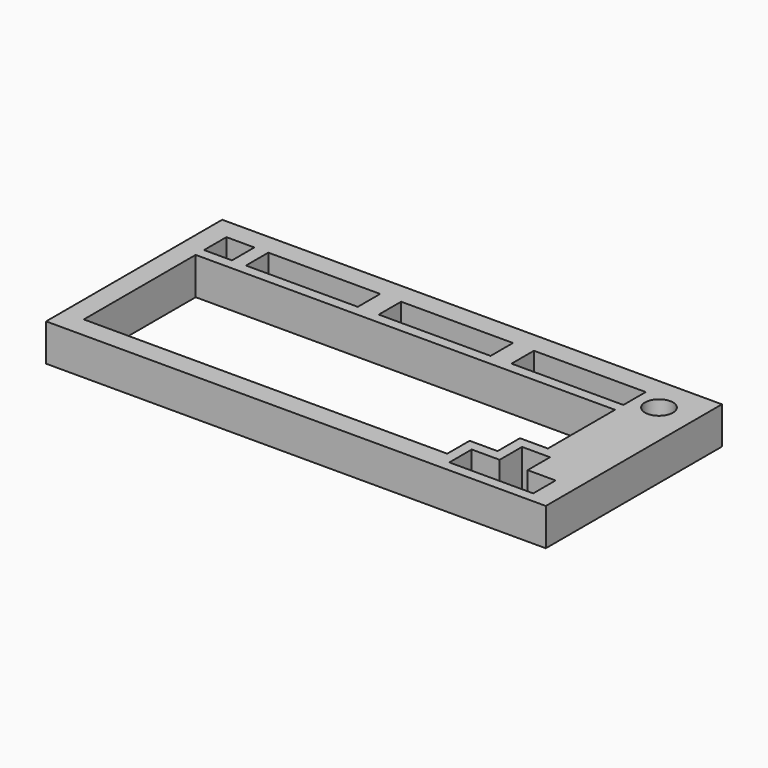
from build123d import *

# Parameters (mm, degrees)
SKETCH_W      = 340.51875
SKETCH_H      = 150.01875
SKETCH_R      = 9.525
SKETCH_W_2    = 19.05
SKETCH_H_2    = 19.05
SKETCH_W_3    = 76.2
EXTRUDE_DEPTH = 25.4


with BuildPart() as part:
    # Sketch → Extrude (new body)
    with BuildSketch(Plane.XY):
        Rectangle(SKETCH_W, SKETCH_H)
        with Locations((146.446875, 51.196875)):
            Circle(SKETCH_R, mode=Mode.SUBTRACT)
        with Locations((-146.446875, 51.196875)):
            Rectangle(SKETCH_W_2, SKETCH_H_2, mode=Mode.SUBTRACT)
        Polygon((155.971875, -67.865625), (98.821875, -67.865625), (98.821875, -48.815625), (117.871875, -48.815625), (117.871875, -29.765625), (136.921875, -29.765625), (136.921875, -48.815625), (155.971875, -48.815625), align=None, mode=Mode.SUBTRACT)
        Polygon((-155.971875, -60.721875), (-155.971875, 34.528125), (129.778125, 34.528125), (129.778125, -22.621875), (110.728125, -22.621875), (110.728125, -41.671875), (91.678125, -41.671875), (91.678125, -60.721875), align=None, mode=Mode.SUBTRACT)
        with Locations((91.678125, 51.196875)):
            Rectangle(SKETCH_W_3, SKETCH_H_2, mode=Mode.SUBTRACT)
        with Locations((1.190625, 51.196875)):
            Rectangle(SKETCH_W_3, SKETCH_H_2, mode=Mode.SUBTRACT)
        with Locations((-89.296875, 51.196875)):
            Rectangle(SKETCH_W_3, SKETCH_H_2, mode=Mode.SUBTRACT)
    extrude(amount=EXTRUDE_DEPTH)


solid = part.part
